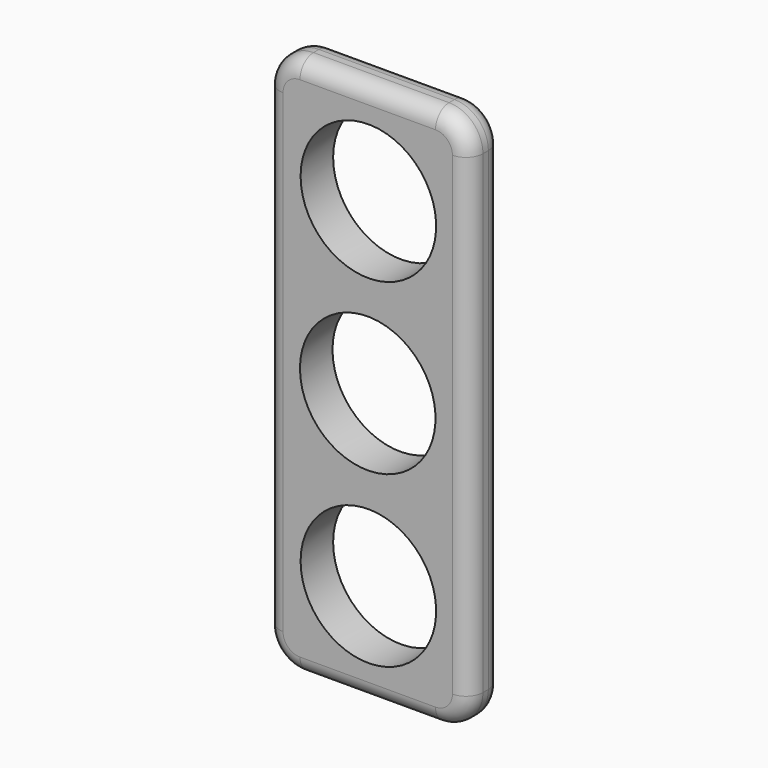
from build123d import *

# Parameters (mm, degrees)
F0_W     = 30
F0_H     = 80
F1_DEPTH = 6
F2_R     = 5
F3_R     = 5
F4_R     = 5
F5_R     = 5
F6_R     = 2.5
F7_R     = 2.5
F9_D     = 20
F13_D    = 20
F14_D    = 20


with BuildPart() as f1:
    # F0 (on Front) → F1 (new body)
    with BuildSketch(Plane.XZ):
        with Locations((15, 40)):
            Rectangle(F0_W, F0_H)
    extrude(amount=F1_DEPTH)

    # F2
    f2_edges = [f1.edges().sort_by_distance(p)[0] for p in [
        (30, -3, 80),
    ]]
    fillet(f2_edges, radius=F2_R)

    # F3
    f3_edges = [f1.edges().sort_by_distance(p)[0] for p in [
        (0, -3, 80),
    ]]
    fillet(f3_edges, radius=F3_R)

    # F4
    f4_edges = [f1.edges().sort_by_distance(p)[0] for p in [
        (0, -3, 0),
    ]]
    fillet(f4_edges, radius=F4_R)

    # F5
    f5_edges = [f1.edges().sort_by_distance(p)[0] for p in [
        (30, -3, 0),
    ]]
    fillet(f5_edges, radius=F5_R)

    # F6
    f6_edges = [f1.edges().sort_by_distance(p)[0] for p in [
        (28.535534, -6, 78.535534),
    ]]
    fillet(f6_edges, radius=F6_R)

    # F7
    f7_edges = [f1.edges().sort_by_distance(p)[0] for p in [
        (28.535534, 0, 78.535534),
    ]]
    fillet(f7_edges, radius=F7_R)

    # F9 (through all)
    with Locations(Plane.XZ.offset(6)):
        with Locations((15, 40)):
            Hole(F9_D / 2)

    # F13 (through all)
    with Locations(Plane.XZ.offset(6)):
        with Locations((15.093754977, 65)):
            Hole(F13_D / 2)

    # F14 (through all)
    with Locations(Plane.XZ.offset(6)):
        with Locations((15.093754977, 14.9996483952)):
            Hole(F14_D / 2)


solid = f1.part
